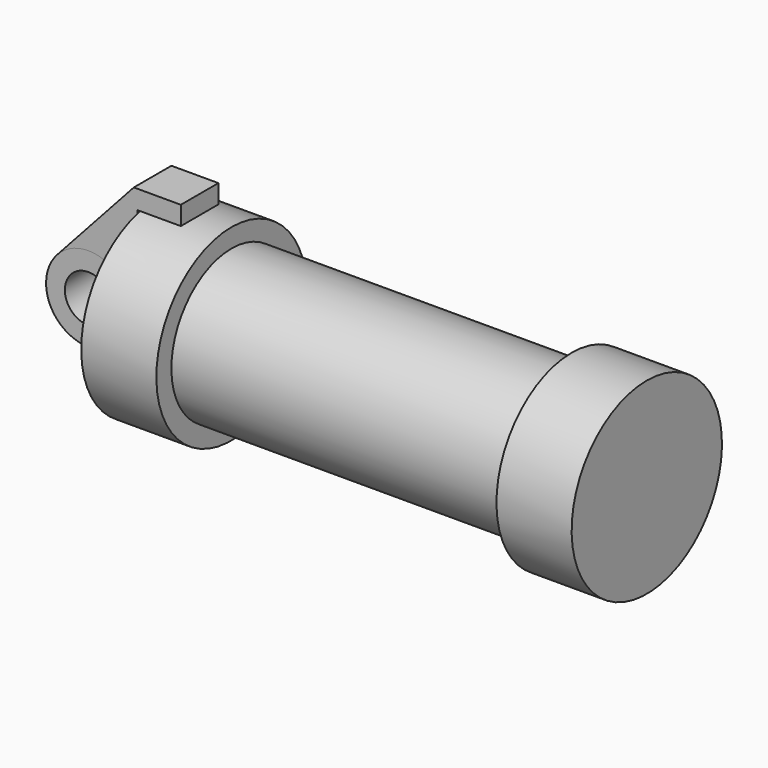
from build123d import *

# Parameters (mm, degrees)
F0_W     = 5.842
F0_H     = 12.7
F0_R     = 3.175
F2_DEPTH = 3.175
F3_DEPTH = 3.175
F4_DEPTH = 3.175


with BuildPart() as f1:
    # F0 (on Front) → F1 (revolve)
    with BuildSketch(Plane.XZ):
        Polygon((5.842, 12.7), (5.842, 0), (66.294, 0), (66.294, 12.7), (56.134, 12.7), (56.134, 10.16), (10.16, 10.16), (10.16, 12.7), align=None)
        with Locations((2.921, 6.35)):
            Rectangle(F0_W, F0_H)
    revolve(axis=Axis((-3.3274, 0, 0), (-1, 0, 0)))


with BuildPart() as f2:
    # F0 (on Front) → F2 (new body, symmetric)
    with BuildSketch(Plane.XZ):
        with BuildLine():
            ThreePointArc((-8.182663, -5.506983), (-3.195791, -4.549339), (-0.9398, 0))
            ThreePointArc((-0.9398, 0), (-4.591961, 5.329721), (-10.88063, 3.847543))
            ThreePointArc((-10.88063, 3.847543), (-12.145978, -1.583727), (-8.182663, -5.506983))
        make_face()
        with Locations((-6.6548, 0)):
            Circle(F0_R, mode=Mode.SUBTRACT)
    extrude(amount=F2_DEPTH, both=True)


with BuildPart() as f3:
    # F0 (on Front) → F3 (new body, symmetric)
    with BuildSketch(Plane.XZ):
        with BuildLine():
            Line((-0.9398, 0), (0, 0))
            Line((0, 0), (0, 12.7))
            Line((0, 12.7), (5.842, 12.7))
            Line((5.842, 12.7), (5.842, 15.24))
            Line((5.842, 15.24), (-0.508, 15.24))
            Line((-0.508, 15.24), (-10.88063, 3.847543))
            ThreePointArc((-10.88063, 3.847543), (-4.591961, 5.329721), (-0.9398, 0))
        make_face()
    extrude(amount=F3_DEPTH, both=True)


with BuildPart() as f4:
    # F0 (on Front) → F4 (new body, symmetric)
    with BuildSketch(Plane.XZ):
        with BuildLine():
            Line((5.842, 0), (0, 0))
            Line((0, 0), (-0.9398, 0))
            ThreePointArc((-0.9398, 0), (-3.195791, -4.549339), (-8.182663, -5.506983))
            Line((-8.182663, -5.506983), (5.842, -9.398))
            Line((5.842, -9.398), (5.842, 0))
        make_face()
    extrude(amount=F4_DEPTH, both=True)


solid = Compound([f1.part, f2.part, f3.part, f4.part])
